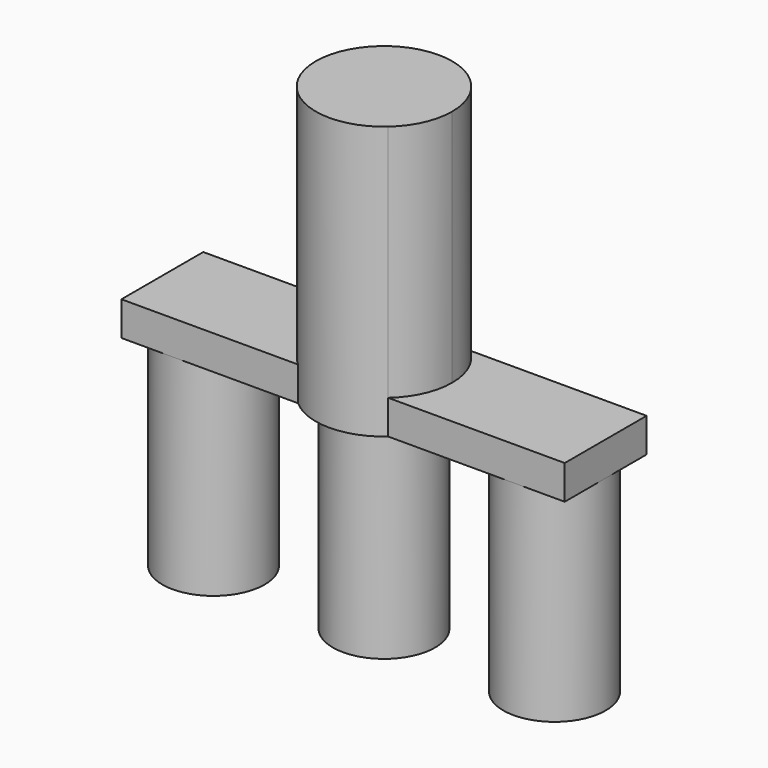
from build123d import *

# Parameters (mm, degrees)
F1_DEPTH = 5
F2_DEPTH = 40
F3_DEPTH = 30


with BuildPart() as f1:
    # F0 (on Top) → F1 (new body)
    with BuildSketch(Plane.XY):
        with BuildLine():
            Line((25, -7.5), (32.5, -7.5))
            Line((32.5, -7.5), (32.5, 0))
            ThreePointArc((32.5, 0), (30.3033008589, -5.3033008589), (25, -7.5))
        make_face()
        with BuildLine():
            Line((6.6143782777, -7.5), (25, -7.5))
            ThreePointArc((25, -7.5), (19.6966991411, -5.3033008589), (17.5, 0))
            Line((17.5, 0), (10, 0))
            ThreePointArc((10, 0), (9.1143782777, -4.1143782777), (6.6143782777, -7.5))
        make_face()
        with BuildLine():
            ThreePointArc((17.5, 0), (19.6966991411, -5.3033008589), (25, -7.5))
            ThreePointArc((25, -7.5), (30.3033008589, -5.3033008589), (32.5, 0))
            ThreePointArc((32.5, 0), (30.3033008589, 5.3033008589), (25, 7.5))
            ThreePointArc((25, 7.5), (19.6966991411, 5.3033008589), (17.5, 0))
        make_face()
        with BuildLine():
            ThreePointArc((25, 7.5), (30.3033008589, 5.3033008589), (32.5, 0))
            Line((32.5, 0), (32.5, 7.5))
            Line((32.5, 7.5), (25, 7.5))
        make_face()
        with BuildLine():
            ThreePointArc((-6.6143782777, -7.5), (0, -10), (6.6143782777, -7.5))
            Line((6.6143782777, -7.5), (-2.86e-08, -7.5))
            Line((-2.86e-08, -7.5), (-6.6143782777, -7.5))
        make_face()
        with BuildLine():
            Line((-2.86e-08, -7.5), (6.6143782777, -7.5))
            ThreePointArc((6.6143782777, -7.5), (9.1143782777, -4.1143782777), (10, 0))
            Line((10, 0), (7.5, 0))
            ThreePointArc((7.5, 0), (5.3033008488, -5.303300869), (-2.86e-08, -7.5))
        make_face()
        with BuildLine():
            Line((10, 0), (17.5, 0))
            ThreePointArc((17.5, 0), (19.6966991411, 5.3033008589), (25, 7.5))
            Line((25, 7.5), (6.6143782777, 7.5))
            ThreePointArc((6.6143782777, 7.5), (9.1143782777, 4.1143782777), (10, 0))
        make_face()
        with BuildLine():
            Line((-6.6143782777, -7.5), (-2.86e-08, -7.5))
            ThreePointArc((-2.86e-08, -7.5), (-5.303300869, -5.3033008488), (-7.5, 0))
            Line((-7.5, 0), (-10, 0))
            ThreePointArc((-10, 0), (-9.1143782777, -4.1143782777), (-6.6143782777, -7.5))
        make_face()
        with BuildLine():
            Line((-25, -7.5), (-6.6143782777, -7.5))
            ThreePointArc((-6.6143782777, -7.5), (-9.1143782777, -4.1143782777), (-10, 0))
            Line((-10, 0), (-17.5, 0))
            ThreePointArc((-17.5, 0), (-19.6966991411, -5.3033008589), (-25, -7.5))
        make_face()
        with BuildLine():
            Line((7.5, 0), (10, 0))
            ThreePointArc((10, 0), (9.1143782777, 4.1143782777), (6.6143782777, 7.5))
            Line((6.6143782777, 7.5), (0, 7.5))
            ThreePointArc((0, 7.5), (5.3033008589, 5.3033008589), (7.5, 0))
        make_face()
        with BuildLine():
            Line((0, 7.5), (6.6143782777, 7.5))
            ThreePointArc((6.6143782777, 7.5), (0, 10), (-6.6143782777, 7.5))
            Line((-6.6143782777, 7.5), (0, 7.5))
        make_face()
        with BuildLine():
            Line((-10, 0), (-7.5, 0))
            ThreePointArc((-7.5, 0), (-5.3033008589, 5.3033008589), (0, 7.5))
            Line((0, 7.5), (-6.6143782777, 7.5))
            ThreePointArc((-6.6143782777, 7.5), (-9.1143782777, 4.1143782777), (-10, 0))
        make_face()
        with BuildLine():
            Line((-32.5, -7.5), (-25, -7.5))
            ThreePointArc((-25, -7.5), (-30.3033008589, -5.3033008589), (-32.5, 0))
            Line((-32.5, 0), (-32.5, -7.5))
        make_face()
        with BuildLine():
            ThreePointArc((-32.5, 0), (-30.3033008589, -5.3033008589), (-25, -7.5))
            ThreePointArc((-25, -7.5), (-19.6966991411, -5.3033008589), (-17.5, 0))
            ThreePointArc((-17.5, 0), (-19.6966991411, 5.3033008589), (-25, 7.5))
            ThreePointArc((-25, 7.5), (-30.3033008589, 5.3033008589), (-32.5, 0))
        make_face()
        with BuildLine():
            Line((-17.5, 0), (-10, 0))
            ThreePointArc((-10, 0), (-9.1143782777, 4.1143782777), (-6.6143782777, 7.5))
            Line((-6.6143782777, 7.5), (-25, 7.5))
            ThreePointArc((-25, 7.5), (-19.6966991411, 5.3033008589), (-17.5, 0))
        make_face()
        with BuildLine():
            Line((-32.5, 7.5), (-32.5, 0))
            ThreePointArc((-32.5, 0), (-30.3033008589, 5.3033008589), (-25, 7.5))
            Line((-25, 7.5), (-32.5, 7.5))
        make_face()
        with BuildLine():
            ThreePointArc((0, 7.5), (-5.3033008589, 5.3033008589), (-7.5, 0))
            Line((-7.5, 0), (0, 0))
            Line((0, 0), (7.5, 0))
            ThreePointArc((7.5, 0), (5.3033008589, 5.3033008589), (0, 7.5))
        make_face()
        with BuildLine():
            ThreePointArc((-7.5, 0), (-5.303300869, -5.3033008488), (-2.86e-08, -7.5))
            ThreePointArc((-2.86e-08, -7.5), (5.3033008488, -5.303300869), (7.5, 0))
            Line((7.5, 0), (0, 0))
            Line((0, 0), (-7.5, 0))
        make_face()
    extrude(amount=F1_DEPTH)


with BuildPart() as f2:
    # F0 (on Top) → F2 (new body)
    with BuildSketch(Plane.XY):
        with BuildLine():
            Line((0, 7.5), (6.6143782777, 7.5))
            ThreePointArc((6.6143782777, 7.5), (0, 10), (-6.6143782777, 7.5))
            Line((-6.6143782777, 7.5), (0, 7.5))
        make_face()
        with BuildLine():
            Line((-10, 0), (-7.5, 0))
            ThreePointArc((-7.5, 0), (-5.3033008589, 5.3033008589), (0, 7.5))
            Line((0, 7.5), (-6.6143782777, 7.5))
            ThreePointArc((-6.6143782777, 7.5), (-9.1143782777, 4.1143782777), (-10, 0))
        make_face()
        with BuildLine():
            ThreePointArc((0, 7.5), (-5.3033008589, 5.3033008589), (-7.5, 0))
            Line((-7.5, 0), (0, 0))
            Line((0, 0), (7.5, 0))
            ThreePointArc((7.5, 0), (5.3033008589, 5.3033008589), (0, 7.5))
        make_face()
        with BuildLine():
            Line((7.5, 0), (10, 0))
            ThreePointArc((10, 0), (9.1143782777, 4.1143782777), (6.6143782777, 7.5))
            Line((6.6143782777, 7.5), (0, 7.5))
            ThreePointArc((0, 7.5), (5.3033008589, 5.3033008589), (7.5, 0))
        make_face()
        with BuildLine():
            ThreePointArc((-7.5, 0), (-5.303300869, -5.3033008488), (-2.86e-08, -7.5))
            ThreePointArc((-2.86e-08, -7.5), (5.3033008488, -5.303300869), (7.5, 0))
            Line((7.5, 0), (0, 0))
            Line((0, 0), (-7.5, 0))
        make_face()
        with BuildLine():
            ThreePointArc((-6.6143782777, -7.5), (0, -10), (6.6143782777, -7.5))
            Line((6.6143782777, -7.5), (-2.86e-08, -7.5))
            Line((-2.86e-08, -7.5), (-6.6143782777, -7.5))
        make_face()
        with BuildLine():
            Line((-2.86e-08, -7.5), (6.6143782777, -7.5))
            ThreePointArc((6.6143782777, -7.5), (9.1143782777, -4.1143782777), (10, 0))
            Line((10, 0), (7.5, 0))
            ThreePointArc((7.5, 0), (5.3033008488, -5.303300869), (-2.86e-08, -7.5))
        make_face()
        with BuildLine():
            Line((-6.6143782777, -7.5), (-2.86e-08, -7.5))
            ThreePointArc((-2.86e-08, -7.5), (-5.303300869, -5.3033008488), (-7.5, 0))
            Line((-7.5, 0), (-10, 0))
            ThreePointArc((-10, 0), (-9.1143782777, -4.1143782777), (-6.6143782777, -7.5))
        make_face()
    extrude(amount=F2_DEPTH)


with BuildPart() as f3:
    # F0 (on Top) → F3 (new body)
    with BuildSketch(Plane.XY):
        with BuildLine():
            ThreePointArc((-32.5, 0), (-30.3033008589, -5.3033008589), (-25, -7.5))
            ThreePointArc((-25, -7.5), (-19.6966991411, -5.3033008589), (-17.5, 0))
            ThreePointArc((-17.5, 0), (-19.6966991411, 5.3033008589), (-25, 7.5))
            ThreePointArc((-25, 7.5), (-30.3033008589, 5.3033008589), (-32.5, 0))
        make_face()
    extrude(amount=-F3_DEPTH)


with BuildPart() as f3b:
    # F0 (on Top) → F3, piece 2 (new body)
    with BuildSketch(Plane.XY):
        with BuildLine():
            ThreePointArc((0, 7.5), (-5.3033008589, 5.3033008589), (-7.5, 0))
            Line((-7.5, 0), (0, 0))
            Line((0, 0), (7.5, 0))
            ThreePointArc((7.5, 0), (5.3033008589, 5.3033008589), (0, 7.5))
        make_face()
        with BuildLine():
            ThreePointArc((-7.5, 0), (-5.303300869, -5.3033008488), (-2.86e-08, -7.5))
            ThreePointArc((-2.86e-08, -7.5), (5.3033008488, -5.303300869), (7.5, 0))
            Line((7.5, 0), (0, 0))
            Line((0, 0), (-7.5, 0))
        make_face()
    extrude(amount=-F3_DEPTH)


with BuildPart() as f3c:
    # F0 (on Top) → F3, piece 3 (new body)
    with BuildSketch(Plane.XY):
        with BuildLine():
            ThreePointArc((17.5, 0), (19.6966991411, -5.3033008589), (25, -7.5))
            ThreePointArc((25, -7.5), (30.3033008589, -5.3033008589), (32.5, 0))
            ThreePointArc((32.5, 0), (30.3033008589, 5.3033008589), (25, 7.5))
            ThreePointArc((25, 7.5), (19.6966991411, 5.3033008589), (17.5, 0))
        make_face()
    extrude(amount=-F3_DEPTH)


solid = Compound([f1.part, f2.part, f3.part, f3b.part, f3c.part])
